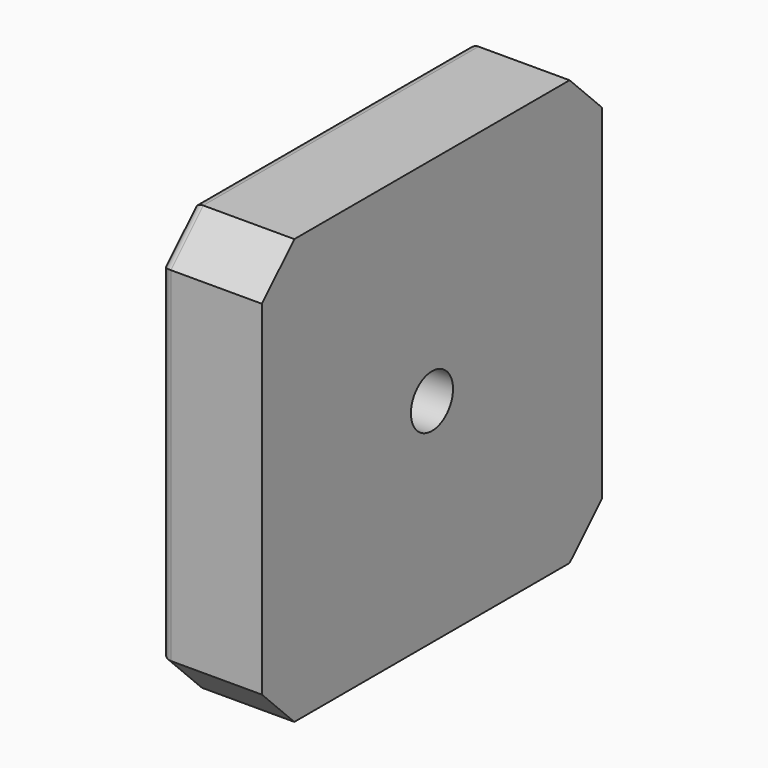
from build123d import *

# Parameters (mm, degrees)
PAD002_DEPTH    = 10
SKETCH008_R     = 4.5
POCKET003_DEPTH = 4
SKETCH009_R     = 2.6
POCKET004_DEPTH = 6.001
FILLET001_R     = 1


with BuildPart() as part:
    # Sketch007 → Pad002 (new body)
    with BuildSketch(Plane.YZ):
        Polygon((-21, 17), (-17, 21), (17, 21), (21, 17), (21, -17), (17, -21), (-17, -21), (-21, -17), align=None)
    extrude(amount=PAD002_DEPTH)

    # Sketch008 (on Face9 of Pad002) → Pocket003 (cut)
    with BuildSketch(Plane(origin=(0, 0, 0), x_dir=(0, 1, 0), z_dir=(-1, 0, 0))):
        Circle(SKETCH008_R)
    extrude(amount=-POCKET003_DEPTH, mode=Mode.SUBTRACT)

    # Sketch009 (on Face12 of Pocket003) → Pocket004 (cut, through all)
    with BuildSketch(Plane(origin=(4, 0, 0), x_dir=(0, 1, 0), z_dir=(-1, 0, 0))):
        Circle(SKETCH009_R)
    extrude(amount=-POCKET004_DEPTH, mode=Mode.SUBTRACT)

    # Fillet001
    fillet001_edges = [part.edges().sort_by_distance(p)[0] for p in [
        (0, -19, 19),
        (0, -21, 0),
        (0, 0, 21),
        (0, -19, -19),
        (0, 19, 19),
        (0, 0, -21),
        (0, 21, 0),
        (0, 19, -19),
        (0, -4.5, 0),
    ]]
    fillet(fillet001_edges, radius=FILLET001_R)


solid = part.part
